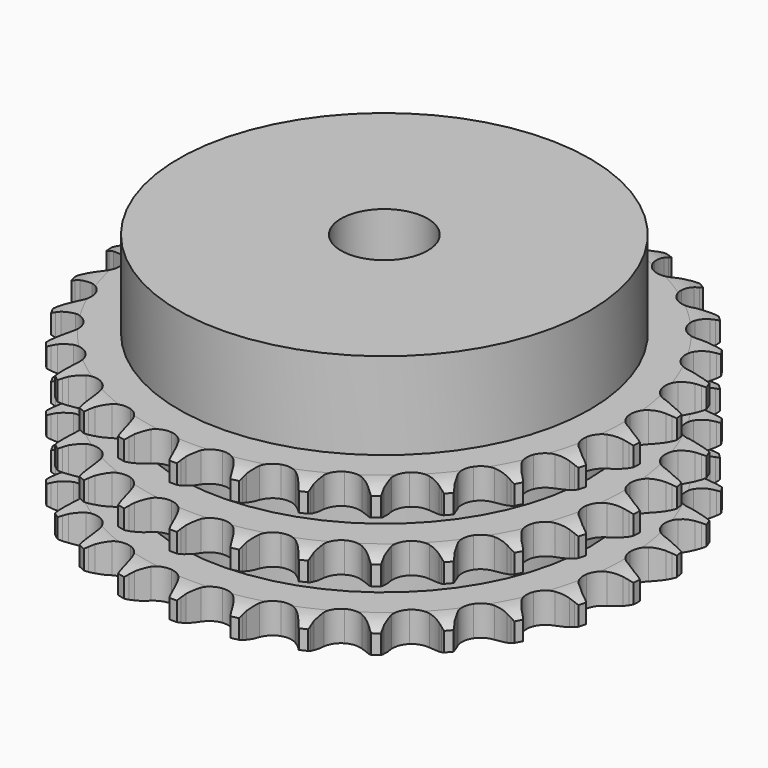
from build123d import *

# Parameters (mm, degrees)
PAD_DEPTH         = 34.9
SKETCH001_R       = 47.5
PAD001_DEPTH      = 55
SKETCH002_R       = 10
POCKET_DEPTH      = 0.001
POCKET_DEPTH_BACK = 55.001


with BuildPart() as part:
    # Sprocket → Pad (new body)
    with BuildSketch(Plane.XY):
        with BuildLine():
            ThreePointArc((-6.761019, 62.166543), (-5.956489, 61.115135), (-5.366296, 59.930062))
            Line((-5.366296, 59.930062), (-4.951457, 58.849368))
            ThreePointArc((-4.951457, 58.849368), (-4.292426, 57.437183), (-3.442485, 56.130972))
            ThreePointArc((-3.442485, 56.130972), (-1.922741, 54.869332), (0, 54.417198))
            ThreePointArc((0, 54.417198), (1.922741, 54.869332), (3.442485, 56.130972))
            ThreePointArc((3.442485, 56.130972), (4.292426, 57.437183), (4.951457, 58.849368))
            Line((4.951457, 58.849368), (5.366296, 59.930062))
            ThreePointArc((5.366296, 59.930062), (5.956489, 61.115135), (6.761019, 62.166543))
            ThreePointArc((6.761019, 62.166543), (7.320718, 60.966766), (7.642357, 59.682525))
            Line((7.642357, 59.682525), (7.81518, 58.53792))
            ThreePointArc((7.81518, 58.53792), (8.155225, 57.017078), (8.704498, 55.558693))
            ThreePointArc((8.704498, 55.558693), (9.917497, 53.99985), (11.698089, 53.144954))
            ThreePointArc((11.698089, 53.144954), (13.673073, 53.173186), (15.428502, 54.078628))
            Line((15.428502, 54.078628), (17.486569, 56.409086))
            ThreePointArc((17.486569, 56.409086), (17.792719, 56.900509), (18.124027, 57.375335))
            ThreePointArc((18.124027, 57.375335), (18.955177, 58.405828), (19.966919, 59.259704))
            ThreePointArc((19.966919, 59.259704), (20.255616, 57.967659), (20.293661, 56.6443))
            Line((20.293661, 56.6443), (20.216388, 55.489303))
            ThreePointArc((20.216388, 55.489303), (20.221546, 53.930919), (20.444468, 52.388552))
            ThreePointArc((20.444468, 52.388552), (21.294003, 50.605395), (22.849188, 49.387711))
            ThreePointArc((22.849188, 49.387711), (24.784067, 48.99072), (26.693098, 49.497628))
            Line((26.693098, 49.497628), (29.204029, 51.331177))
            ThreePointArc((29.204029, 51.331177), (29.608662, 51.745298), (30.034298, 52.137802))
            ThreePointArc((30.034298, 52.137802), (31.067542, 52.96553), (32.239188, 53.581948))
            ThreePointArc((32.239188, 53.581948), (32.243384, 52.258049), (31.996057, 50.95745))
            Line((31.996057, 50.95745), (31.6723, 49.846068))
            ThreePointArc((31.6723, 49.846068), (31.342331, 48.323009), (31.228478, 46.768781))
            ThreePointArc((31.228478, 46.768781), (31.674825, 44.844688), (32.931885, 43.321154))
            ThreePointArc((32.931885, 43.321154), (34.736186, 42.517502), (36.709555, 42.602174))
            Line((36.709555, 42.602174), (39.555941, 43.85308))
            ThreePointArc((39.555941, 43.85308), (40.040138, 44.170535), (40.540199, 44.462363))
            ThreePointArc((40.540199, 44.462363), (41.727223, 45.048622), (43.003989, 45.398759))
            ThreePointArc((43.003989, 45.398759), (42.723488, 44.10491), (42.202353, 42.887887))
            Line((42.202353, 42.887887), (41.64725, 41.872086))
            ThreePointArc((41.64725, 41.872086), (40.997583, 40.455569), (40.552279, 38.962153))
            ThreePointArc((40.552279, 38.962153), (40.574567, 36.987093), (41.474723, 35.228948))
            ThreePointArc((41.474723, 35.228948), (43.064079, 34.056213), (45.009514, 33.714689))
            Line((45.009514, 33.714689), (48.058261, 34.324462))
            ThreePointArc((48.058261, 34.324462), (48.599381, 34.530406), (49.150485, 34.707913))
            ThreePointArc((49.150485, 34.707913), (50.435786, 35.02529), (51.757971, 35.092775))
            ThreePointArc((51.757971, 35.092775), (51.205888, 33.889475), (50.435313, 32.812934))
            Line((50.435313, 32.812934), (49.674822, 31.940212))
            ThreePointArc((49.674822, 31.940212), (48.735834, 30.696472), (47.9799, 29.333698))
            ThreePointArc((47.9799, 29.333698), (47.577088, 27.400023), (48.07825, 25.489475))
            ThreePointArc((48.07825, 25.489475), (49.378344, 24.002494), (51.204879, 23.250744))
            Line((51.204879, 23.250744), (54.31343, 23.190869))
            ThreePointArc((54.31343, 23.190869), (54.886171, 23.275674), (55.46255, 23.33056))
            ThreePointArc((55.46255, 23.33056), (56.786028, 23.364215), (58.091808, 23.145892))
            ThreePointArc((58.091808, 23.145892), (57.293958, 22.089405), (56.309974, 21.203684))
            Line((56.309974, 21.203684), (55.379653, 20.51485))
            ThreePointArc((55.379653, 20.51485), (54.195252, 19.502042), (53.164035, 18.333632))
            ThreePointArc((53.164035, 18.333632), (52.354957, 16.531758), (52.433691, 14.558143))
            ThreePointArc((52.433691, 14.558143), (53.383732, 12.826445), (55.00596, 11.699619))
            Line((55.00596, 11.699619), (58.028963, 10.972898))
            ThreePointArc((58.028963, 10.972898), (58.606545, 10.932597), (59.181247, 10.862295))
            ThreePointArc((59.181247, 10.862295), (60.481017, 10.610656), (61.709336, 10.116732))
            ThreePointArc((61.709336, 10.116732), (60.703027, 9.25646), (59.551644, 8.602974))
            Line((59.551644, 8.602974), (58.494994, 8.130235))
            ThreePointArc((58.494994, 8.130235), (57.120559, 7.395718), (55.862278, 6.476306))
            ThreePointArc((55.862278, 6.476306), (54.684767, 4.890487), (54.33739, 2.946088))
            ThreePointArc((54.33739, 2.946088), (54.892957, 1.050645), (56.235023, -0.398567))
            Line((56.235023, -0.398567), (59.031127, -1.758154))
            ThreePointArc((59.031127, -1.758154), (59.586542, -1.921675), (60.132694, -2.113878))
            ThreePointArc((60.132694, -2.113878), (61.347982, -2.639046), (62.441404, -3.385475))
            ThreePointArc((62.441404, -3.385475), (61.273689, -4.009307), (60.008744, -4.400002))
            Line((60.008744, -4.400002), (58.875174, -4.63454))
            ThreePointArc((58.875174, -4.63454), (57.374973, -5.056422), (55.948464, -5.683845))
            ThreePointArc((55.948464, -5.683845), (54.457577, -6.979459), (53.700334, -8.803723))
            ThreePointArc((53.700334, -8.803723), (53.835448, -10.774282), (54.834599, -12.478116))
            Line((54.834599, -12.478116), (57.273061, -14.406997))
            ThreePointArc((57.273061, -14.406997), (57.780338, -14.686093), (58.272404, -14.991208))
            ThreePointArc((58.272404, -14.991208), (59.346384, -15.76535), (60.253782, -16.72938))
            ThreePointArc((60.253782, -16.72938), (58.979261, -17.087604), (57.659903, -17.197238))
            Line((57.659903, -17.197238), (56.502416, -17.182609))
            ThreePointArc((56.502416, -17.182609), (54.946597, -17.272129), (53.418561, -17.578226))
            ThreePointArc((53.418561, -17.578226), (51.684012, -18.523052), (50.55231, -20.141881))
            ThreePointArc((50.55231, -20.141881), (50.260653, -22.095415), (50.870171, -23.974203))
            Line((50.870171, -23.974203), (52.83697, -26.382185))
            ThreePointArc((52.83697, -26.382185), (53.27239, -26.763805), (53.687361, -27.167566))
            ThreePointArc((53.687361, -27.167566), (54.569814, -28.154483), (55.24876, -29.291039))
            ThreePointArc((55.24876, -29.291039), (53.927029, -29.366903), (52.614949, -29.190351))
            Line((52.614949, -29.190351), (51.487668, -28.927238))
            ThreePointArc((51.487668, -28.927238), (49.948979, -28.68021), (48.390866, -28.650668))
            ThreePointArc((48.390866, -28.650668), (46.49376, -29.200528), (45.040516, -30.538228))
            ThreePointArc((45.040516, -30.538228), (44.335726, -32.383391), (44.527109, -34.349282))
            Line((44.527109, -34.349282), (45.930281, -37.12377))
            ThreePointArc((45.930281, -37.12377), (46.273484, -37.590071), (46.591957, -38.0736))
            ThreePointArc((46.591957, -38.0736), (47.24162, -39.227144), (47.660367, -40.483081))
            ThreePointArc((47.660367, -40.483081), (46.353229, -40.273038), (45.109778, -39.818556))
            Line((45.109778, -39.818556), (44.065414, -39.319262))
            ThreePointArc((44.065414, -39.319262), (42.615802, -38.747237), (41.100468, -38.383437))
            ThreePointArc((41.100468, -38.383437), (39.129511, -38.51262), (37.422677, -39.50664))
            ThreePointArc((37.422677, -39.50664), (36.337709, -41.157156), (36.10201, -43.118228))
            Line((36.10201, -43.118228), (36.875944, -46.12949))
            ThreePointArc((36.875944, -46.12949), (37.110882, -46.658667), (37.317964, -47.199353))
            ThreePointArc((37.317964, -47.199353), (37.704461, -48.465587), (37.843428, -49.782179))
            ThreePointArc((37.843428, -49.782179), (36.612004, -49.296051), (35.495324, -48.584889))
            Line((35.495324, -48.584889), (34.58271, -47.872761))
            ThreePointArc((34.58271, -47.872761), (33.289958, -47.002485), (31.888257, -46.321439))
            ThreePointArc((31.888257, -46.321439), (29.93561, -46.023905), (28.054996, -46.627766))
            ThreePointArc((28.054996, -46.627766), (26.640582, -48.006458), (25.988821, -49.871012))
            Line((25.988821, -49.871012), (26.097328, -52.978246))
            ThreePointArc((26.097328, -52.978246), (26.213016, -53.545556), (26.299025, -54.118118))
            ThreePointArc((26.299025, -54.118118), (26.404283, -55.437833), (26.256973, -56.753518))
            ThreePointArc((26.256973, -56.753518), (25.158842, -56.014036), (24.221148, -55.079446))
            Line((24.221148, -55.079446), (23.482957, -54.187783))
            ThreePointArc((23.482957, -54.187783), (22.407512, -53.05995), (21.184987, -52.093502))
            ThreePointArc((21.184987, -52.093502), (19.341953, -51.383163), (17.375495, -51.56863))
            ThreePointArc((17.375495, -51.56863), (15.697771, -52.611031), (14.660423, -54.291884))
            Line((14.660423, -54.291884), (14.09843, -57.349798))
            ThreePointArc((14.09843, -57.349798), (14.089458, -57.928714), (14.050373, -58.50638))
            ThreePointArc((14.050373, -58.50638), (13.869471, -59.817868), (13.442771, -61.071125))
            ThreePointArc((13.442771, -61.071125), (12.52928, -60.112866), (11.814418, -58.99855))
            Line((11.814418, -58.99855), (11.285167, -57.969044))
            ThreePointArc((11.285167, -57.969044), (10.477316, -56.636391), (9.491131, -55.429731))
            ThreePointArc((9.491131, -55.429731), (7.843888, -54.339801), (5.883534, -54.098202))
            ThreePointArc((5.883534, -54.098202), (4.020949, -54.755571), (2.64652, -56.174128))
            Line((2.64652, -56.174128), (1.440305, -59.039737))
            ThreePointArc((1.440305, -59.039737), (1.307093, -59.60319), (1.144741, -60.158948))
            ThreePointArc((1.144741, -60.158948), (0.686137, -61.400885), (0, -62.533114))
            ThreePointArc((0, -62.533114), (-0.686137, -61.400885), (-1.144741, -60.158948))
            Line((-1.144741, -60.158948), (-1.440305, -59.039737))
            ThreePointArc((-1.440305, -59.039737), (-1.942788, -57.564577), (-2.64652, -56.174128))
            ThreePointArc((-2.64652, -56.174128), (-4.020949, -54.755571), (-5.883534, -54.098202))
            ThreePointArc((-5.883534, -54.098202), (-7.843888, -54.339801), (-9.491131, -55.429731))
            Line((-9.491131, -55.429731), (-11.285167, -57.969044))
            ThreePointArc((-11.285167, -57.969044), (-11.53639, -58.490687), (-11.814418, -58.99855))
            ThreePointArc((-11.814418, -58.99855), (-12.52928, -60.112866), (-13.442771, -61.071125))
            ThreePointArc((-13.442771, -61.071125), (-13.869471, -59.817868), (-14.050373, -58.50638))
            Line((-14.050373, -58.50638), (-14.09843, -57.349798))
            ThreePointArc((-14.09843, -57.349798), (-14.272049, -55.801107), (-14.660423, -54.291884))
            ThreePointArc((-14.660423, -54.291884), (-15.697771, -52.611031), (-17.375495, -51.56863))
            ThreePointArc((-17.375495, -51.56863), (-19.341953, -51.383163), (-21.184987, -52.093502))
            Line((-21.184987, -52.093502), (-23.482957, -54.187783))
            ThreePointArc((-23.482957, -54.187783), (-23.840444, -54.643225), (-24.221148, -55.079446))
            ThreePointArc((-24.221148, -55.079446), (-25.158842, -56.014036), (-26.256973, -56.753518))
            ThreePointArc((-26.256973, -56.753518), (-26.404283, -55.437833), (-26.299025, -54.118118))
            Line((-26.299025, -54.118118), (-26.097328, -52.978246))
            ThreePointArc((-26.097328, -52.978246), (-25.933965, -51.428439), (-25.988821, -49.871012))
            ThreePointArc((-25.988821, -49.871012), (-26.640582, -48.006458), (-28.054996, -46.627766))
            ThreePointArc((-28.054996, -46.627766), (-29.93561, -46.023905), (-31.888257, -46.321439))
            Line((-31.888257, -46.321439), (-34.58271, -47.872761))
            ThreePointArc((-34.58271, -47.872761), (-35.029746, -48.240706), (-35.495324, -48.584889))
            ThreePointArc((-35.495324, -48.584889), (-36.612004, -49.296051), (-37.843428, -49.782179))
            ThreePointArc((-37.843428, -49.782179), (-37.704461, -48.465587), (-37.317964, -47.199353))
            Line((-37.317964, -47.199353), (-36.875944, -46.12949))
            ThreePointArc((-36.875944, -46.12949), (-36.383237, -44.651035), (-36.10201, -43.118228))
            ThreePointArc((-36.10201, -43.118228), (-36.337709, -41.157156), (-37.422677, -39.50664))
            ThreePointArc((-37.422677, -39.50664), (-39.129511, -38.51262), (-41.100468, -38.383437))
            Line((-41.100468, -38.383437), (-44.065414, -39.319262))
            ThreePointArc((-44.065414, -39.319262), (-44.581096, -39.582505), (-45.109778, -39.818556))
            ThreePointArc((-45.109778, -39.818556), (-46.353229, -40.273038), (-47.660367, -40.483081))
            ThreePointArc((-47.660367, -40.483081), (-47.24162, -39.227144), (-46.591957, -38.0736))
            Line((-46.591957, -38.0736), (-45.930281, -37.12377))
            ThreePointArc((-45.930281, -37.12377), (-45.13127, -35.785798), (-44.527109, -34.349282))
            ThreePointArc((-44.527109, -34.349282), (-44.335726, -32.383391), (-45.040516, -30.538228))
            ThreePointArc((-45.040516, -30.538228), (-46.49376, -29.200528), (-48.390866, -28.650668))
            Line((-48.390866, -28.650668), (-51.487668, -28.927238))
            ThreePointArc((-51.487668, -28.927238), (-52.047883, -29.07347), (-52.614949, -29.190351))
            ThreePointArc((-52.614949, -29.190351), (-53.927029, -29.366903), (-55.24876, -29.291039))
            ThreePointArc((-55.24876, -29.291039), (-54.569814, -28.154483), (-53.687361, -27.167566))
            Line((-53.687361, -27.167566), (-52.83697, -26.382185))
            ThreePointArc((-52.83697, -26.382185), (-51.769015, -25.247257), (-50.870171, -23.974203))
            ThreePointArc((-50.870171, -23.974203), (-50.260653, -22.095415), (-50.55231, -20.141881))
            ThreePointArc((-50.55231, -20.141881), (-51.684012, -18.523052), (-53.418561, -17.578226))
            Line((-53.418561, -17.578226), (-56.502416, -17.182609))
            ThreePointArc((-56.502416, -17.182609), (-57.080969, -17.204992), (-57.659903, -17.197238))
            ThreePointArc((-57.659903, -17.197238), (-58.979261, -17.087604), (-60.253782, -16.72938))
            ThreePointArc((-60.253782, -16.72938), (-59.346384, -15.76535), (-58.272404, -14.991208))
            Line((-58.272404, -14.991208), (-57.273061, -14.406997))
            ThreePointArc((-57.273061, -14.406997), (-55.986098, -13.528182), (-54.834599, -12.478116))
            ThreePointArc((-54.834599, -12.478116), (-53.835448, -10.774282), (-53.700334, -8.803723))
            ThreePointArc((-53.700334, -8.803723), (-54.457577, -6.979459), (-55.948464, -5.683845))
            Line((-55.948464, -5.683845), (-58.875174, -4.63454))
            ThreePointArc((-58.875174, -4.63454), (-59.445013, -4.532028), (-60.008744, -4.400002))
            ThreePointArc((-60.008744, -4.400002), (-61.273689, -4.009307), (-62.441404, -3.385475))
            ThreePointArc((-62.441404, -3.385475), (-61.347982, -2.639046), (-60.132694, -2.113878))
            Line((-60.132694, -2.113878), (-59.031127, -1.758154))
            ThreePointArc((-59.031127, -1.758154), (-57.585334, -1.176545), (-56.235023, -0.398567))
            ThreePointArc((-56.235023, -0.398567), (-54.892957, 1.050645), (-54.33739, 2.946088))
            ThreePointArc((-54.33739, 2.946088), (-54.684767, 4.890487), (-55.862278, 6.476306))
            Line((-55.862278, 6.476306), (-58.494994, 8.130235))
            ThreePointArc((-58.494994, 8.130235), (-59.029473, 8.352849), (-59.551644, 8.602974))
            ThreePointArc((-59.551644, 8.602974), (-60.703027, 9.25646), (-61.709336, 10.116732))
            ThreePointArc((-61.709336, 10.116732), (-60.481017, 10.610656), (-59.181247, 10.862295))
            Line((-59.181247, 10.862295), (-58.028963, 10.972898))
            ThreePointArc((-58.028963, 10.972898), (-56.491943, 11.230107), (-55.00596, 11.699619))
            ThreePointArc((-55.00596, 11.699619), (-53.383732, 12.826445), (-52.433691, 14.558143))
            ThreePointArc((-52.433691, 14.558143), (-52.354957, 16.531758), (-53.164035, 18.333632))
            Line((-53.164035, 18.333632), (-55.379653, 20.51485))
            ThreePointArc((-55.379653, 20.51485), (-55.853781, 20.847156), (-56.309974, 21.203684))
            ThreePointArc((-56.309974, 21.203684), (-57.293958, 22.089405), (-58.091808, 23.145892))
            ThreePointArc((-58.091808, 23.145892), (-56.786028, 23.364215), (-55.46255, 23.33056))
            Line((-55.46255, 23.33056), (-54.31343, 23.190869))
            ThreePointArc((-54.31343, 23.190869), (-52.757052, 23.111651), (-51.204879, 23.250744))
            ThreePointArc((-51.204879, 23.250744), (-49.378344, 24.002494), (-48.07825, 25.489475))
            ThreePointArc((-48.07825, 25.489475), (-47.577088, 27.400023), (-47.9799, 29.333698))
            Line((-47.9799, 29.333698), (-49.674822, 31.940212))
            ThreePointArc((-49.674822, 31.940212), (-50.066429, 32.366673), (-50.435313, 32.812934))
            ThreePointArc((-50.435313, 32.812934), (-51.205888, 33.889475), (-51.757971, 35.092775))
            ThreePointArc((-51.757971, 35.092775), (-50.435786, 35.02529), (-49.150485, 34.707913))
            Line((-49.150485, 34.707913), (-48.058261, 34.324462))
            ThreePointArc((-48.058261, 34.324462), (-46.555299, 33.91252), (-45.009514, 33.714689))
            ThreePointArc((-45.009514, 33.714689), (-43.064079, 34.056213), (-41.474723, 35.228948))
            ThreePointArc((-41.474723, 35.228948), (-40.574567, 36.987093), (-40.552279, 38.962153))
            Line((-40.552279, 38.962153), (-41.64725, 41.872086))
            ThreePointArc((-41.64725, 41.872086), (-41.938026, 42.37276), (-42.202353, 42.887887))
            ThreePointArc((-42.202353, 42.887887), (-42.723488, 44.10491), (-43.003989, 45.398759))
            ThreePointArc((-43.003989, 45.398759), (-41.727223, 45.048622), (-40.540199, 44.462363))
            Line((-40.540199, 44.462363), (-39.555941, 43.85308))
            ThreePointArc((-39.555941, 43.85308), (-38.176673, 43.127677), (-36.709555, 42.602174))
            ThreePointArc((-36.709555, 42.602174), (-34.736186, 42.517502), (-32.931885, 43.321154))
            ThreePointArc((-32.931885, 43.321154), (-31.674825, 44.844688), (-31.228478, 46.768781))
            Line((-31.228478, 46.768781), (-31.6723, 49.846068))
            ThreePointArc((-31.6723, 49.846068), (-31.848647, 50.397544), (-31.996057, 50.95745))
            ThreePointArc((-31.996057, 50.95745), (-32.243384, 52.258049), (-32.239188, 53.581948))
            ThreePointArc((-32.239188, 53.581948), (-31.067542, 52.96553), (-30.034298, 52.137802))
            Line((-30.034298, 52.137802), (-29.204029, 51.331177))
            ThreePointArc((-29.204029, 51.331177), (-28.012948, 50.326232), (-26.693098, 49.497628))
            ThreePointArc((-26.693098, 49.497628), (-24.784067, 48.99072), (-22.849188, 49.387711))
            ThreePointArc((-22.849188, 49.387711), (-21.294003, 50.605395), (-20.444468, 52.388552))
            Line((-20.444468, 52.388552), (-20.216388, 55.489303))
            ThreePointArc((-20.216388, 55.489303), (-20.270061, 56.065795), (-20.293661, 56.6443))
            ThreePointArc((-20.293661, 56.6443), (-20.255616, 57.967659), (-19.966919, 59.259704))
            ThreePointArc((-19.966919, 59.259704), (-18.955177, 58.405828), (-18.124027, 57.375335))
            Line((-18.124027, 57.375335), (-17.486569, 56.409086))
            ThreePointArc((-17.486569, 56.409086), (-16.539368, 55.171589), (-15.428502, 54.078628))
            ThreePointArc((-15.428502, 54.078628), (-13.673073, 53.173186), (-11.698089, 53.144954))
            ThreePointArc((-11.698089, 53.144954), (-9.917497, 53.99985), (-8.704498, 55.558693))
            Line((-8.704498, 55.558693), (-7.81518, 58.53792))
            ThreePointArc((-7.81518, 58.53792), (-7.743669, 59.112472), (-7.642357, 59.682525))
            ThreePointArc((-7.642357, 59.682525), (-7.320718, 60.966766), (-6.761019, 62.166543))
        make_face()
    extrude(amount=PAD_DEPTH)

    # Sketch → Groove (revolve, cut)
    with BuildSketch(Plane.XZ):
        with BuildLine():
            ThreePointArc((55.333431, 0), (58.24032, 0.329167), (61, 1.3))
            Line((61, 1.3), (61, 5.7))
            ThreePointArc((61, 5.7), (58.24032, 6.670833), (55.333431, 7))
            Line((47.5, 7), (55.333431, 7))
            Line((47.5, 7), (47.5, 13.95))
            Line((47.5, 13.95), (55.333431, 13.95))
            ThreePointArc((55.333431, 13.95), (58.24032, 14.279167), (61, 15.25))
            Line((61, 19.65), (61, 15.25))
            ThreePointArc((61, 19.65), (58.24032, 20.620833), (55.333431, 20.95))
            Line((47.5, 20.95), (55.333431, 20.95))
            Line((47.5, 27.9), (47.5, 20.95))
            Line((55.333431, 27.9), (47.5, 27.9))
            ThreePointArc((55.333431, 27.9), (58.24032, 28.229167), (61, 29.2))
            Line((61, 29.2), (61, 33.6))
            ThreePointArc((61, 33.6), (58.24032, 34.570833), (55.333431, 34.9))
            Line((55.333431, 34.9), (71, 34.9))
            Line((71, 34.9), (71, 0))
            Line((55.333431, 0), (71, 0))
        make_face()
    revolve(axis=Axis((0, 0, 0), (0, 0, 1)), mode=Mode.SUBTRACT)

    # Sketch001 → Pad001 (join)
    with BuildSketch(Plane.XY):
        Circle(SKETCH001_R)
    extrude(amount=PAD001_DEPTH)

    # Sketch002 → Pocket (cut, two sides)
    with BuildSketch(Plane.XY) as pocket_sk:
        Circle(SKETCH002_R)
    extrude(amount=-POCKET_DEPTH, mode=Mode.SUBTRACT)
    extrude(pocket_sk.sketch, amount=POCKET_DEPTH_BACK, mode=Mode.SUBTRACT)


solid = part.part
